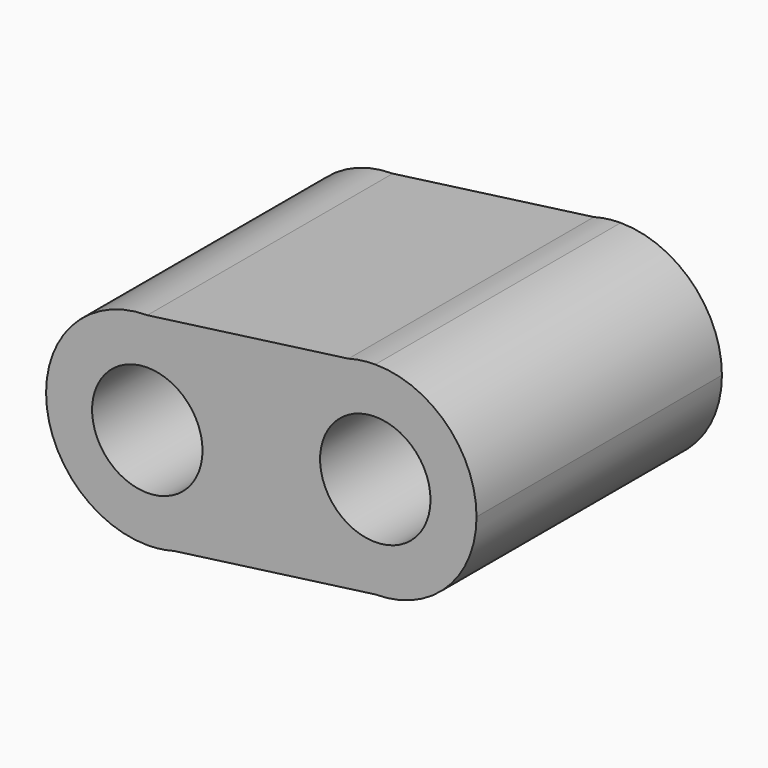
from build123d import *

# Parameters (mm, degrees)
F0_R     = 0.9
F1_DEPTH = 5


with BuildPart() as f1:
    # F0 (on Front) → F1 (new body)
    with BuildSketch(Plane.XZ):
        with BuildLine():
            ThreePointArc((-47.276223, 34.600237), (-46.401506, 35.191042), (-46.063876, 36.191136))
            ThreePointArc((-46.063876, 36.191136), (-46.54715, 37.357862), (-47.713876, 37.841136))
            ThreePointArc((-47.713876, 37.841136), (-49.363876, 36.191136), (-47.713876, 34.541136))
            Line((-47.713876, 34.541136), (-47.276223, 34.600237))
        make_face()
        with Locations((-47.713876, 36.191136)):
            Circle(F0_R, mode=Mode.SUBTRACT)
        with BuildLine():
            ThreePointArc((-47.713876, 37.841136), (-46.54715, 37.357862), (-46.063876, 36.191136))
            ThreePointArc((-46.063876, 36.191136), (-46.401506, 35.191042), (-47.276223, 34.600237))
            Line((-47.276223, 34.600237), (-43.997608, 35.042983))
            ThreePointArc((-43.997608, 35.042983), (-45.632766, 36.47217), (-44.43526, 38.283882))
            Line((-44.43526, 38.283882), (-47.713876, 37.841136))
        make_face()
        with BuildLine():
            ThreePointArc((-47.713876, 34.541136), (-47.493063, 34.555978), (-47.276223, 34.600237))
            Line((-47.276223, 34.600237), (-47.713876, 34.541136))
        make_face()
        with BuildLine():
            Line((-43.997608, 38.342983), (-44.43526, 38.283882))
            ThreePointArc((-44.43526, 38.283882), (-45.632766, 36.47217), (-43.997608, 35.042983))
            ThreePointArc((-43.997608, 35.042983), (-42.830881, 35.526257), (-42.347608, 36.692983))
            ThreePointArc((-42.347608, 36.692983), (-42.830881, 37.859709), (-43.997608, 38.342983))
        make_face()
        with Locations((-43.997608, 36.692983)):
            Circle(F0_R, mode=Mode.SUBTRACT)
        with BuildLine():
            ThreePointArc((-43.997608, 38.342983), (-44.21842, 38.328141), (-44.43526, 38.283882))
            Line((-44.43526, 38.283882), (-43.997608, 38.342983))
        make_face()
    extrude(amount=F1_DEPTH)


solid = f1.part
